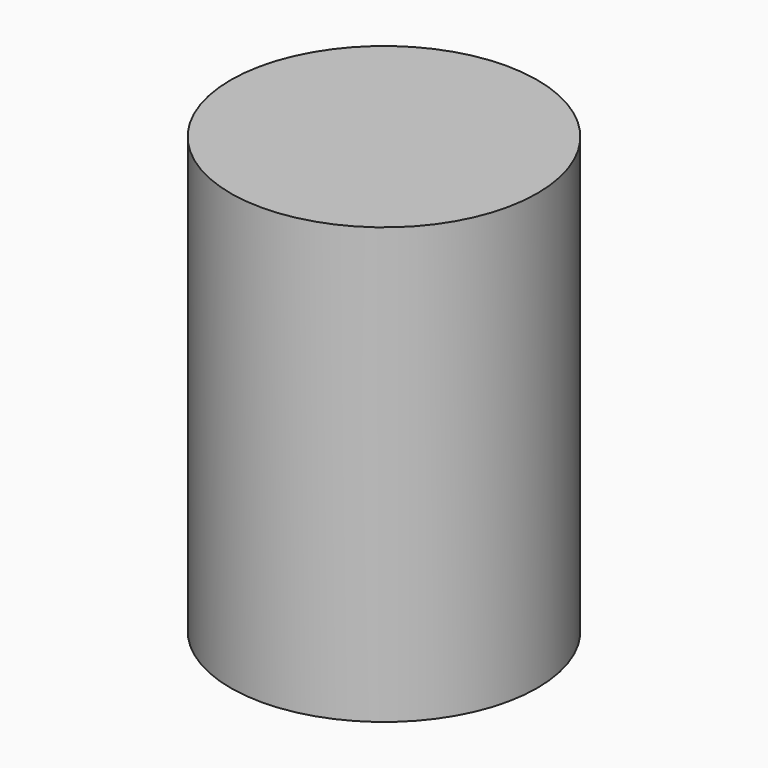
from build123d import *

# Parameters (mm, degrees)
CYLINDER_R     = 5.2832
CYLINDER_DEPTH = 15


with BuildPart() as part:
    # Cylinder → Cylinder (new body)
    with BuildSketch(Plane.XY.offset(-2.5)):
        Circle(CYLINDER_R)
    extrude(amount=CYLINDER_DEPTH)


solid = part.part
